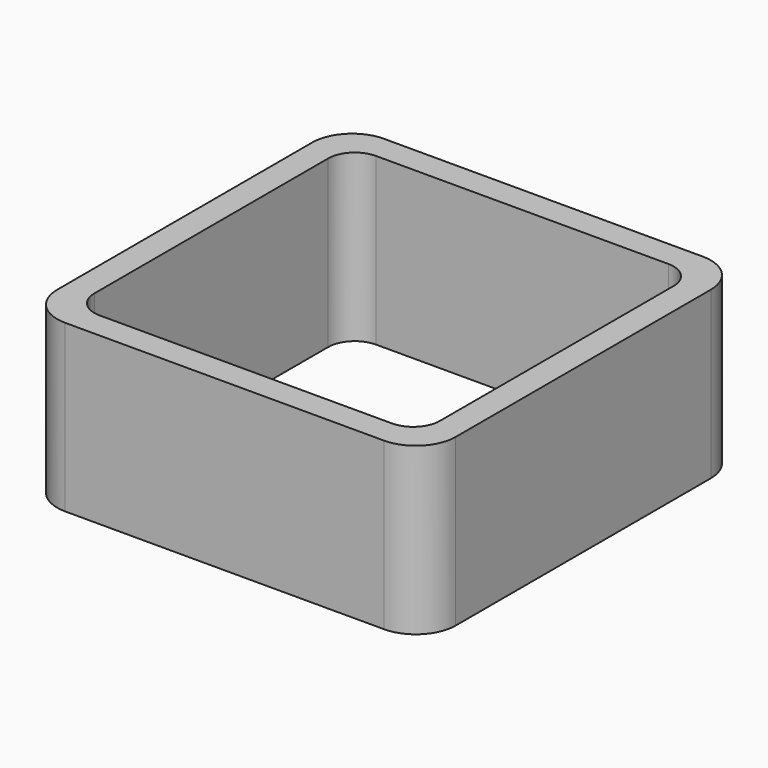
from build123d import *

# Parameters (mm, degrees)
EXTRUDE_DEPTH = 50


with BuildPart() as part:
    # Sketch → Extrude (new body)
    with BuildSketch(Plane.XY):
        with BuildLine():
            Line((-48, 60), (48, 60))
            ThreePointArc((60, 48), (56.485281, 56.485281), (48, 60))
            Line((60, 48), (60, -48))
            ThreePointArc((48, -60), (56.485281, -56.485281), (60, -48))
            Line((48, -60), (-48, -60))
            ThreePointArc((-60, -48), (-56.485281, -56.485281), (-48, -60))
            Line((-60, -48), (-60, 48))
            ThreePointArc((-48, 60), (-56.485281, 56.485281), (-60, 48))
        make_face()
        with BuildLine():
            Line((-44, 52), (44, 52))
            ThreePointArc((52, 44), (49.656854, 49.656854), (44, 52))
            Line((52, 44), (52, -44))
            ThreePointArc((44, -52), (49.656854, -49.656854), (52, -44))
            Line((44, -52), (-44, -52))
            ThreePointArc((-52, -44), (-49.656854, -49.656854), (-44, -52))
            Line((-52, -44), (-52, 44))
            ThreePointArc((-44, 52), (-49.656854, 49.656854), (-52, 44))
        make_face(mode=Mode.SUBTRACT)
    extrude(amount=EXTRUDE_DEPTH)


solid = part.part
